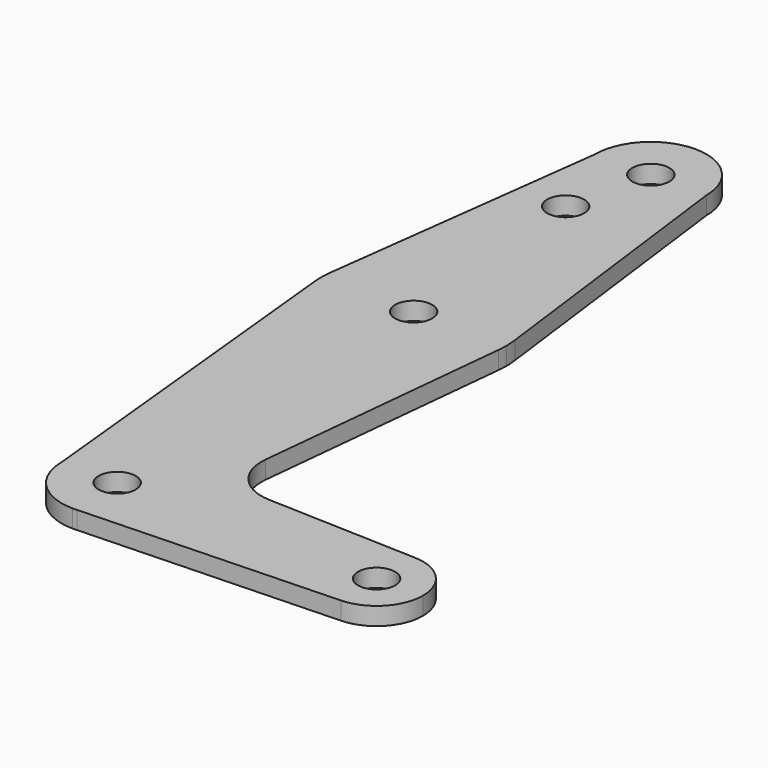
from build123d import *

# Parameters (mm, degrees)
F0_R     = 3.175
F1_DEPTH = 3.048


with BuildPart() as f1:
    # F0 (on Top) → F1 (new body)
    with BuildSketch(Plane.XY):
        with BuildLine():
            ThreePointArc((0.677344, -9.500886), (6.970557, -6.491299), (9.525, 0))
            ThreePointArc((9.525, 0), (0, 9.525), (-9.525, 0))
            ThreePointArc((-9.525, 0), (-6.735192, -6.735192), (0, -9.525))
            Line((0, -9.525), (0.677344, -9.500886))
        make_face()
        Circle(F0_R, mode=Mode.SUBTRACT)
        with BuildLine():
            ThreePointArc((-9.525, 0), (0, 9.525), (9.525, 0))
            ThreePointArc((9.525, 0), (6.970557, -6.491299), (0.677344, -9.500886))
            Line((0.677344, -9.500886), (44.732405, -7.932475))
            ThreePointArc((44.732405, -7.932475), (36.513756, -0.141225), (44.45, 7.9375))
            Line((44.45, 7.9375), (18.932251, 8.852361))
            ThreePointArc((18.932251, 8.852361), (13.224458, 11.573096), (11.307362, 17.598546))
            Line((11.307362, 17.598546), (15.794203, 61.90038))
            ThreePointArc((15.794203, 61.90038), (0, 47.625), (-15.794203, 61.90038))
            Line((-15.794203, 61.90038), (-9.525, 0))
        make_face()
        with BuildLine():
            ThreePointArc((0, -9.525), (0.338886, -9.51897), (0.677344, -9.500886))
            Line((0.677344, -9.500886), (0, -9.525))
        make_face()
        with BuildLine():
            ThreePointArc((-15.747457, 65.508289), (-15.873668, 63.705667), (-15.794203, 61.90038))
            ThreePointArc((-15.794203, 61.90038), (0, 47.625), (15.794203, 61.90038))
            ThreePointArc((15.794203, 61.90038), (15.854788, 62.699171), (15.875, 63.5))
            ThreePointArc((15.875, 63.5), (15.843082, 64.506168), (15.747457, 65.508289))
            ThreePointArc((15.747457, 65.508289), (0, 79.375), (-15.747457, 65.508289))
        make_face()
        with Locations((0, 63.5)):
            Circle(F0_R, mode=Mode.SUBTRACT)
        with BuildLine():
            ThreePointArc((44.45, 7.9375), (36.513756, -0.141225), (44.732405, -7.932475))
            ThreePointArc((44.732405, -7.932475), (50.161633, -5.51191), (52.3875, 0))
            ThreePointArc((52.3875, 0), (50.06266, 5.61266), (44.45, 7.9375))
        make_face()
        with Locations((44.45, 0)):
            Circle(F0_R, mode=Mode.SUBTRACT)
        with BuildLine():
            Line((-9.525, 114.3), (-15.747457, 65.508289))
            ThreePointArc((-15.747457, 65.508289), (0, 79.375), (15.747457, 65.508289))
            Line((15.747457, 65.508289), (9.525, 114.3))
            ThreePointArc((9.525, 114.3), (0, 104.775), (-9.525, 114.3))
        make_face()
        with Locations((-3.175, 100.0252)):
            Circle(F0_R, mode=Mode.SUBTRACT)
        with BuildLine():
            ThreePointArc((9.525, 114.3), (0, 123.825), (-9.525, 114.3))
            ThreePointArc((-9.525, 114.3), (0, 104.775), (9.525, 114.3))
        make_face()
        with Locations((0, 114.3)):
            Circle(F0_R, mode=Mode.SUBTRACT)
    extrude(amount=F1_DEPTH)


solid = f1.part
